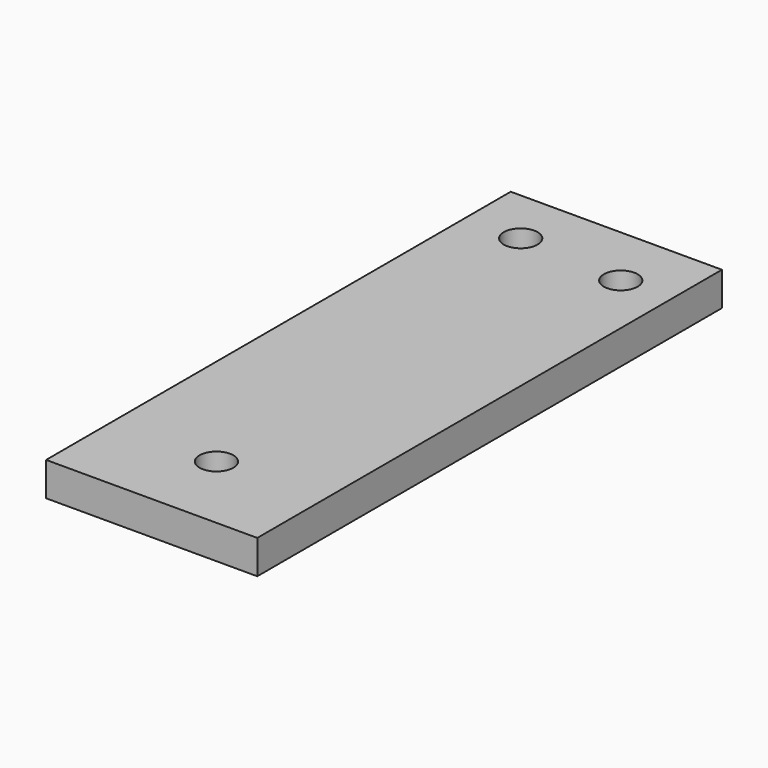
from build123d import *

# Parameters (mm, degrees)
F0_W     = 20
F0_H     = 55
F0_R     = 1.6
F1_DEPTH = 3.2
F2_DEPTH = 3.2
F3_DEPTH = 3.2


with BuildPart() as f1:
    # F0 (on Top) → F1 (new body)
    with BuildSketch(Plane.XY):
        Rectangle(F0_W, F0_H)
        with Locations((0, -19.831753)):
            Circle(F0_R, mode=Mode.SUBTRACT)
        with Locations((-4.759501, 22.12626)):
            Circle(F0_R, mode=Mode.SUBTRACT)
        with Locations((5.231229, 21.486786)):
            Circle(F0_R, mode=Mode.SUBTRACT)
    extrude(amount=F1_DEPTH)

    # F0 (on Top) → F2 (join)
    with BuildSketch(Plane.XY):
        Rectangle(F0_W, F0_H)
        with Locations((0, -19.831753)):
            Circle(F0_R, mode=Mode.SUBTRACT)
        with Locations((-4.759501, 22.12626)):
            Circle(F0_R, mode=Mode.SUBTRACT)
        with Locations((5.231229, 21.486786)):
            Circle(F0_R, mode=Mode.SUBTRACT)
    extrude(amount=F2_DEPTH)

    # F0 (on Top) → F3 (join)
    with BuildSketch(Plane.XY):
        Rectangle(F0_W, F0_H)
        with Locations((0, -19.831753)):
            Circle(F0_R, mode=Mode.SUBTRACT)
        with Locations((-4.759501, 22.12626)):
            Circle(F0_R, mode=Mode.SUBTRACT)
        with Locations((5.231229, 21.486786)):
            Circle(F0_R, mode=Mode.SUBTRACT)
    extrude(amount=F3_DEPTH)


solid = f1.part
